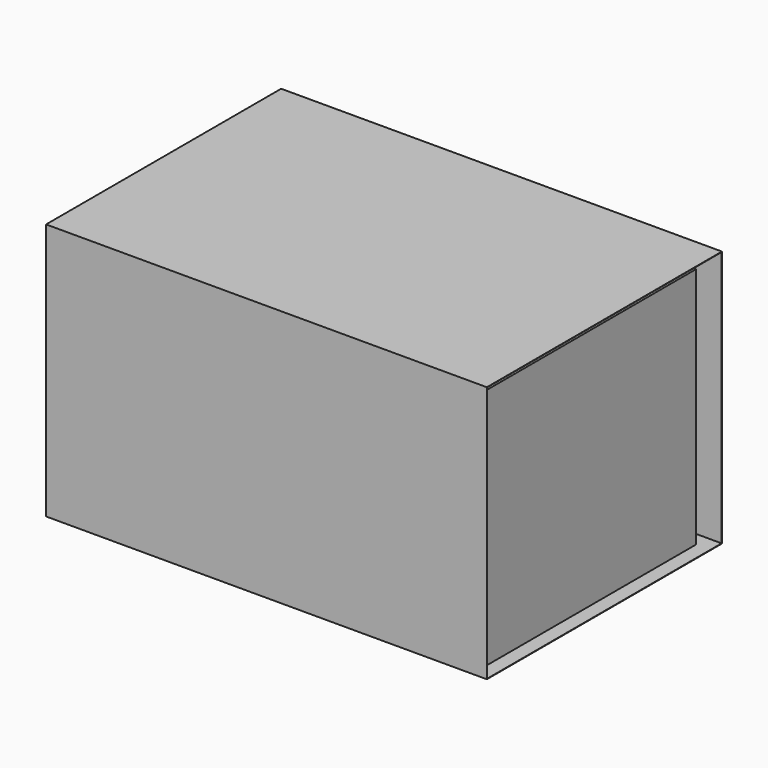
from build123d import *

# Parameters (mm, degrees)
F0_W     = 304.8
F0_H     = 203.2
F1_DEPTH = 177.8
F2_T     = -10.16
F3_T     = -0.254


with BuildPart() as f1:
    # F0 (on Top) → F1 (new body)
    with BuildSketch(Plane.XY):
        with Locations((-48.5099423885, -25.4367205143)):
            Rectangle(F0_W, F0_H)
    extrude(amount=F1_DEPTH)

    # F2
    f2_openings = [f1.faces().sort_by_distance(p)[0] for p in [
        (-48.509942, -25.436721, 0),
    ]]
    offset(amount=F2_T, openings=f2_openings)

    # F3
    f3_openings = [f1.faces().sort_by_distance(p)[0] for p in [
        (103.890058, -25.436721, 88.9),
    ]]
    offset(amount=F3_T, openings=f3_openings, kind=Kind.INTERSECTION)


solid = f1.part
